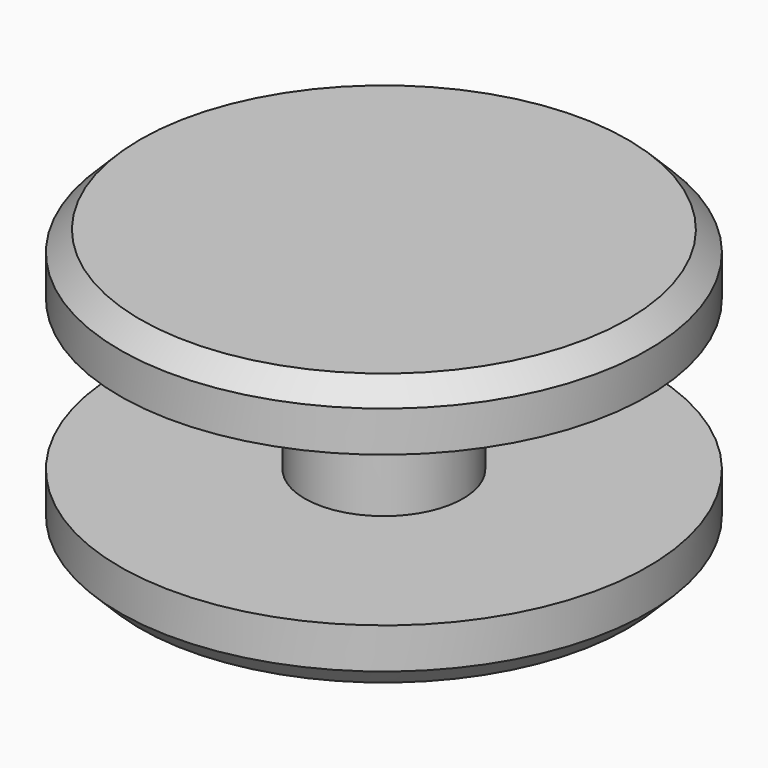
from build123d import *

# Parameters (mm, degrees)
F2_SIZE = 1
F5_SIZE = 1


with BuildPart() as f1:
    # F0 (on Front) → F1 (revolve)
    with BuildSketch(Plane.XZ):
        Polygon((-13, 0), (0, 0), (0, 3), (-1.9, 3), (-1.9, 10), (-3.9, 10), (-3.9, 3), (-13, 3), align=None)
    revolve(axis=Axis((0, 0, 1.5), (0, 0, -1)))

    # F2
    f2_edges = [f1.edges().sort_by_distance(p)[0] for p in [
        (13, 0, 0),
    ]]
    chamfer(f2_edges, length=F2_SIZE)


with BuildPart() as f4:
    # F3 (on Front) → F4 (revolve)
    with BuildSketch(Plane.XZ):
        Polygon((-1.7, 3.2), (0, 3.2), (0, 13.4), (-12.999942, 13.4), (-12.999942, 10.4), (-1.7, 10.4), align=None)
    revolve(axis=Axis((0, 0, 8.3), (0, 0, -1)))

    # F5
    f5_edges = [f4.edges().sort_by_distance(p)[0] for p in [
        (12.999942, 0, 13.4),
    ]]
    chamfer(f5_edges, length=F5_SIZE)


solid = Compound([f1.part, f4.part])
